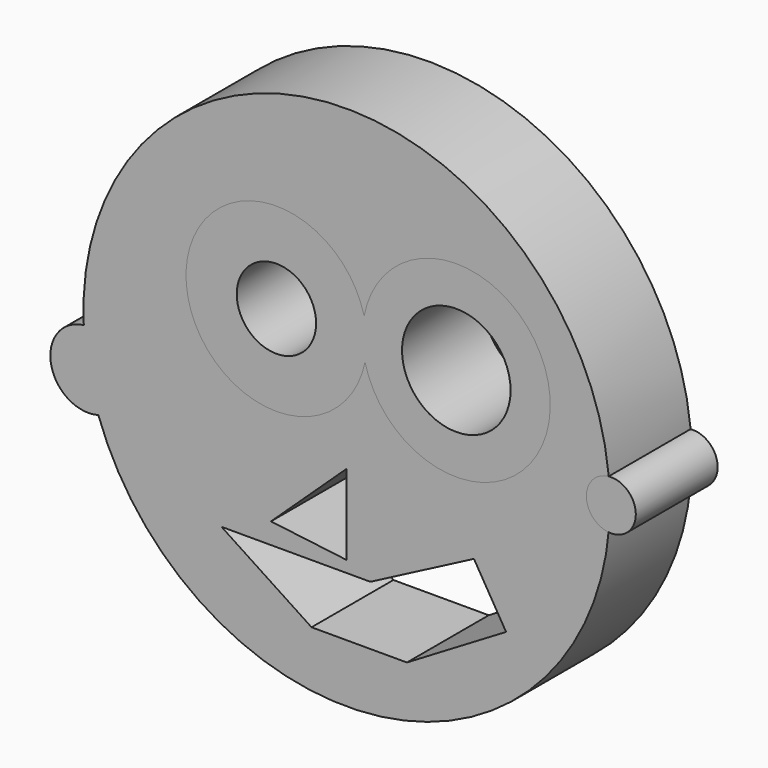
from build123d import *

# Parameters (mm, degrees)
F4_DEPTH  = 25.4
F1_R      = 6.1337389696
F5_R      = 9.8521642479
F5_R_2    = 13.4755875588
F6_DEPTH  = 50.8
F8_DEPTH  = 50.8
F10_DEPTH = 25.4


with BuildPart() as f4:
    # F0 (on Front) → F4 (new body)
    with BuildSketch(Plane.XZ):
        with BuildLine():
            ThreePointArc((-61.6319889699, -21.6963166615), (11.0053938043, -64.4058501091), (65.3393619578, 0))
            ThreePointArc((65.3393619578, 0), (-1.6077464964, 65.319578782), (-65.2602412343, -3.2145194194))
            ThreePointArc((-65.2602412343, -3.2145194194), (-57.8568542521, -5.5172266933), (-54.6735863066, -12.5868380535))
            ThreePointArc((-54.6735863066, -12.5868380535), (-56.6122050352, -18.3183729294), (-61.6319889699, -21.6963166615))
        make_face()
        Polygon((-18.7840107828, -30.9874843806), (0, -13.3792376146), (0, -33.3199203014), align=None, mode=Mode.SUBTRACT)
        with BuildLine():
            ThreePointArc((4.5682068913, 11.4550446749), (-39.8758272282, 15.3947175672), (4.3327601519, 21.427460987))
            ThreePointArc((4.3327601519, 21.427460987), (29.4635200031, 40.1961760553), (50.5534419729, 16.9790498912))
            ThreePointArc((50.5534419729, 16.9790498912), (30.0108964453, -6.1788671089), (4.5682068913, 11.4550446749))
        make_face(mode=Mode.SUBTRACT)
        with BuildLine():
            ThreePointArc((-61.6319889699, -21.6963166615), (-64.1155498212, -12.5868380535), (-65.2602412343, -3.2145194194))
            ThreePointArc((-65.2602412343, -3.2145194194), (-73.3806645084, -14.4057181605), (-61.6319889699, -21.6963166615))
        make_face()
        with BuildLine():
            ThreePointArc((-54.6735863066, -12.5868380535), (-57.8568542521, -5.5172266933), (-65.2602412343, -3.2145194194))
            ThreePointArc((-65.2602412343, -3.2145194194), (-64.1155498212, -12.5868380535), (-61.6319889699, -21.6963166615))
            ThreePointArc((-61.6319889699, -21.6963166615), (-56.6122050352, -18.3183729294), (-54.6735863066, -12.5868380535))
        make_face()
        Polygon((0, -33.3199203014), (0, -13.3792376146), (-18.7840107828, -30.9874843806), align=None)
    extrude(amount=F4_DEPTH)

    # F3 (on face) → F8 (cut)
    with BuildSketch(Plane.XZ):
        Polygon((0, -13.3792376146), (-18.7840107828, -30.9874843806), (0, -33.3199203014), align=None)
    extrude(amount=F8_DEPTH, mode=Mode.SUBTRACT)

    # F9 (on face) → F10 (cut)
    with BuildSketch(Plane.XZ):
        Polygon((39.5809486508, -36.1669994891), (31.6048823297, -22.7949712425), (5.886271596, -36.1669994891), (-18.26203987, -36.1669994891), (-31.0659818351, -36.1669994891), (-8.7129957974, -50.8514246749), (14.9622280356, -50.8514246749), align=None)
    extrude(amount=F10_DEPTH, mode=Mode.SUBTRACT)


with BuildPart() as f4b:
    # F1 (on Front) → F4, piece 2 (new body)
    with BuildSketch(Plane.XZ):
        with Locations((65.6527280807, 0)):
            Circle(F1_R)
    extrude(amount=F4_DEPTH)


with BuildPart() as f4c:
    # F2 (on face) → F4, piece 3 (new body)
    with BuildSketch(Plane.XZ):
        with BuildLine():
            ThreePointArc((4.3327601519, 21.427460987), (-39.8758272282, 15.3947175672), (4.5682068913, 11.4550446749))
            ThreePointArc((4.5682068913, 11.4550446749), (30.0108964453, -6.1788671089), (50.5534419729, 16.9790498912))
            ThreePointArc((50.5534419729, 16.9790498912), (29.4635200031, 40.1961760553), (4.3327601519, 21.427460987))
        make_face()
    extrude(amount=F4_DEPTH)

    # F5 (on face) → F6 (cut)
    with BuildSketch(Plane.XZ.offset(25.4)):
        with Locations((-17.4322258681, 15.9246064723)):
            Circle(F5_R)
        with Locations((27.2290371358, 16.9790498912)):
            Circle(F5_R_2)
    extrude(amount=-F6_DEPTH, mode=Mode.SUBTRACT)


solid = Compound([f4.part, f4b.part, f4c.part])
